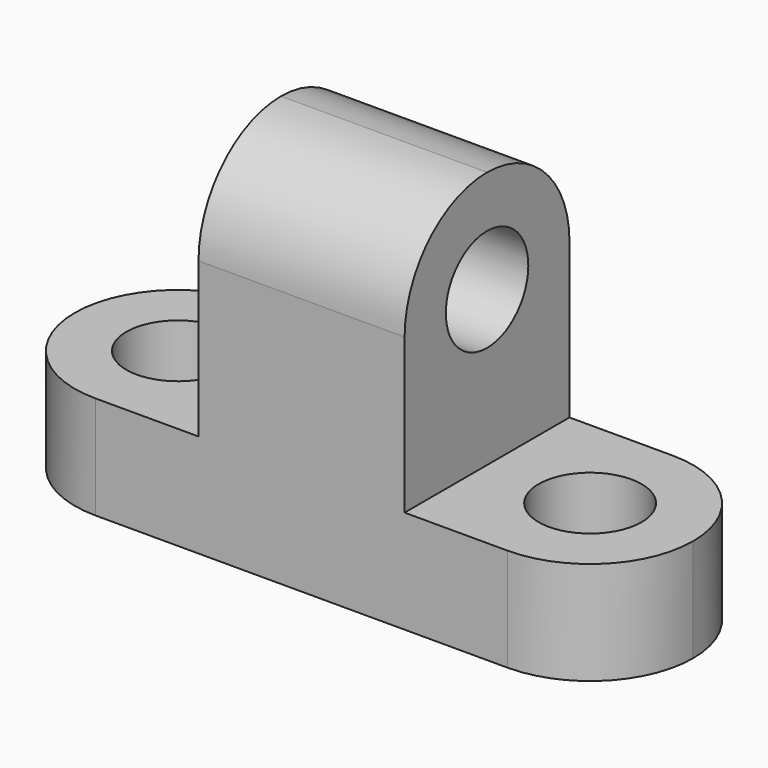
from build123d import *

# Parameters (mm, degrees)
F0_W      = 76.2
F0_H      = 25.4
F1_DEPTH  = 44.45
F2_W      = 25.4
F2_H      = 31.75
F3_DEPTH  = 25.4
F4_R      = 6.35
F5_DEPTH  = 25.4
F7_DEPTH  = 25.4
F9_DEPTH  = 25.4
F11_DEPTH = 25.4
F13_DEPTH = 25.4
F15_DEPTH = 25.4


with BuildPart() as f1:
    # F0 (on Top) → F1 (new body)
    with BuildSketch(Plane.XY):
        with Locations((19.2070399102, -10.8540700749)):
            Rectangle(F0_W, F0_H)
    extrude(amount=F1_DEPTH)

    # F2 (on face) → F3 (cut)
    with BuildSketch(Plane.XZ.offset(23.5540700749)):
        with Locations((-6.1929600898, 28.575)):
            Rectangle(F2_W, F2_H)
        with Locations((44.6070399102, 28.575)):
            Rectangle(F2_W, F2_H)
    extrude(amount=-F3_DEPTH, mode=Mode.SUBTRACT)

    # F4 (on face) → F5 (cut)
    with BuildSketch(Plane.XY.offset(12.7)):
        with Locations((44.6070399102, -10.8540700749)):
            Circle(F4_R)
    extrude(amount=-F5_DEPTH, mode=Mode.SUBTRACT)

    # F6 (on face) → F7 (cut)
    with BuildSketch(Plane.XY.offset(12.7)):
        with BuildLine():
            ThreePointArc((-6.1929600898, -4.5040700749), (-10.6830881503, -15.3441981354), (0.1570399102, -10.8540700749))
            ThreePointArc((0.1570399102, -10.8540700749), (-1.7028320292, -6.3639420143), (-6.1929600898, -4.5040700749))
        make_face()
    extrude(amount=-F7_DEPTH, mode=Mode.SUBTRACT)

    # F8 (on face) → F9 (cut)
    with BuildSketch(Plane.XY.offset(12.7)):
        with BuildLine():
            ThreePointArc((44.6070399102, 1.8459299251), (53.5872960313, -1.8738139538), (57.3070399102, -10.8540700749))
            Line((57.3070399102, -10.8540700749), (57.3070399102, 1.8459299251))
            Line((57.3070399102, 1.8459299251), (44.6070399102, 1.8459299251))
        make_face()
        with BuildLine():
            ThreePointArc((57.3070399102, -10.8540700749), (53.5872960313, -19.8343261959), (44.6070399102, -23.5540700749))
            Line((44.6070399102, -23.5540700749), (57.3070399102, -23.5540700749))
            Line((57.3070399102, -23.5540700749), (57.3070399102, -10.8540700749))
        make_face()
    extrude(amount=-F9_DEPTH, mode=Mode.SUBTRACT)

    # F10 (on face) → F11 (cut)
    with BuildSketch(Plane.XY.offset(12.7)):
        with BuildLine():
            ThreePointArc((-6.1929600898, -23.5540700749), (-15.173216183, -19.8343262238), (-18.8929600898, -10.8540701536))
            Line((-18.8929600898, -10.8540701536), (-18.8929600898, -23.5540700749))
            Line((-18.8929600898, -23.5540700749), (-6.1929600898, -23.5540700749))
        make_face()
        with BuildLine():
            ThreePointArc((-18.8929600898, -10.8540701536), (-15.1732162387, -1.8738139816), (-6.1929600898, 1.8459299251))
            Line((-6.1929600898, 1.8459299251), (-18.8929600898, 1.8459299251))
            Line((-18.8929600898, 1.8459299251), (-18.8929600898, -10.8540701536))
        make_face()
    extrude(amount=-F11_DEPTH, mode=Mode.SUBTRACT)

    # F12 (on face) → F13 (cut)
    with BuildSketch(Plane.YZ.offset(31.9070399102)):
        with BuildLine():
            Line((-4.5040700749, 31.75), (-17.2040700749, 31.75))
            ThreePointArc((-17.2040700749, 31.75), (-10.8540700749, 25.4), (-4.5040700749, 31.75))
        make_face()
        with BuildLine():
            ThreePointArc((-4.5040700749, 31.75), (-10.8540700749, 38.1), (-17.2040700749, 31.75))
            Line((-17.2040700749, 31.75), (-4.5040700749, 31.75))
        make_face()
    extrude(amount=-F13_DEPTH, mode=Mode.SUBTRACT)

    # F14 (on face) → F15 (cut)
    with BuildSketch(Plane.YZ.offset(31.9070399102)):
        with BuildLine():
            ThreePointArc((-23.5540700749, 31.75), (-19.8343261959, 40.7302561211), (-10.8540700749, 44.45))
            Line((-10.8540700749, 44.45), (-23.5540700749, 44.45))
            Line((-23.5540700749, 44.45), (-23.5540700749, 31.75))
        make_face()
        with BuildLine():
            ThreePointArc((-10.8540700749, 44.45), (-1.8738139538, 40.7302561211), (1.8459299251, 31.75))
            Line((1.8459299251, 31.75), (1.8459299251, 44.45))
            Line((1.8459299251, 44.45), (-10.8540700749, 44.45))
        make_face()
    extrude(amount=-F15_DEPTH, mode=Mode.SUBTRACT)


solid = f1.part
